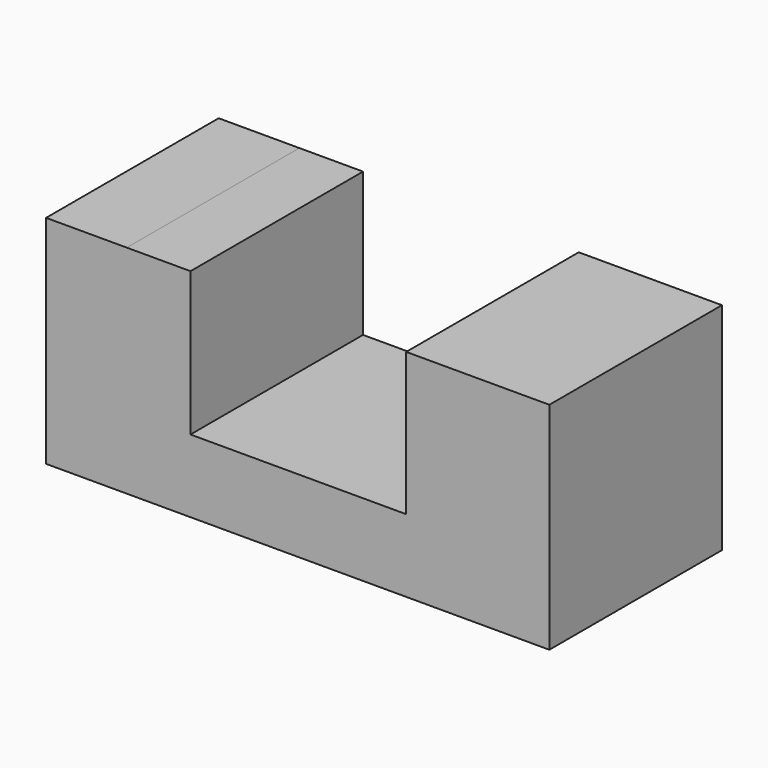
from build123d import *

# Parameters (mm, degrees)
F0_W     = 11.22363
F0_H     = 30.126581
F0_W_2   = 10.928267
F0_H_2   = 30
F1_DEPTH = 30


with BuildPart() as f1:
    # F0 (on Front) → F1 (new body)
    with BuildSketch(Plane.XZ):
        with Locations((-35.753318, 15.06329)):
            Rectangle(F0_W, F0_H)
        with Locations((23.170733, 15)):
            Rectangle(F0_W_2, F0_H_2)
        Polygon((-30.141503, 30.126581), (-30.141503, 0), (17.7066, 0), (17.7066, 30), (8.719256, 30), (8.719256, 10.126581), (-21.280744, 10.126581), (-21.280744, 30.126581), align=None)
    extrude(amount=F1_DEPTH)


solid = f1.part
